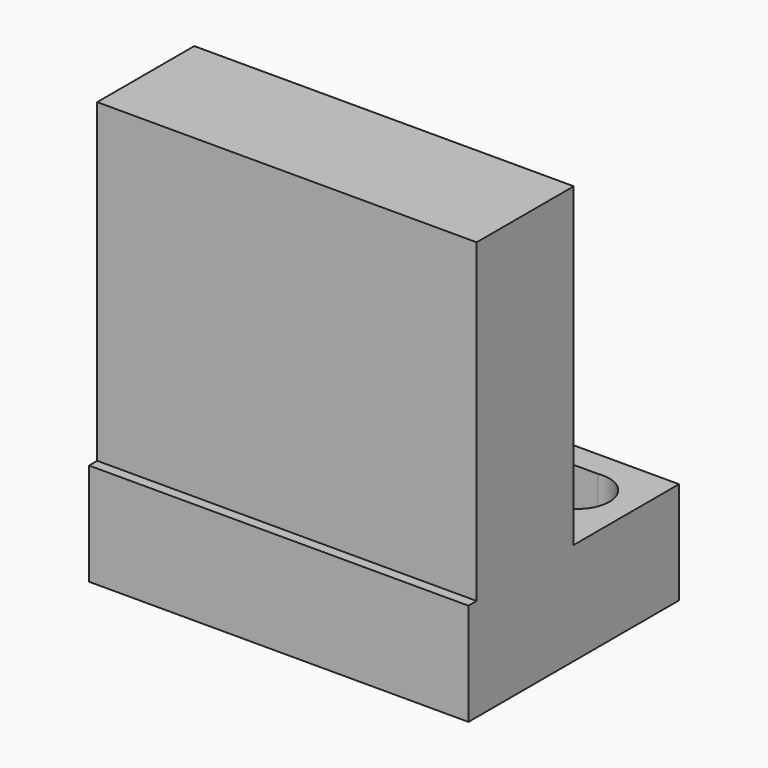
from build123d import *

# Parameters (mm, degrees)
F0_W     = 91.5788821876
F0_H     = 24.6932478622
F1_DEPTH = 63.5
F3_DEPTH = 24.6942478622
F4_W     = 91.5788821876
F4_H     = 29.2822020948
F5_DEPTH = 76.2


with BuildPart() as f1:
    # F0 (on Front) → F1 (new body)
    with BuildSketch(Plane.XZ):
        with Locations((5.1525291055, 26.8320306204)):
            Rectangle(F0_W, F0_H)
    extrude(amount=F1_DEPTH)

    # F2 (on face) → F3 (cut, through all)
    with BuildSketch(Plane.XY.offset(39.1786545515)):
        with BuildLine():
            ThreePointArc((-17.3395135884, -13.8349290937), (-19.5607685854, -8.4723451545), (-24.9233525246, -6.2510901575))
            Line((-24.9233525246, -6.2510901575), (-24.9233525246, -21.41876803))
            ThreePointArc((-24.9233525246, -21.41876803), (-19.5607685854, -19.197513033), (-17.3395135884, -13.8349290937))
        make_face()
        with BuildLine():
            Line((36.3587484939, -6.2510901575), (-24.9233525246, -6.2510901575))
            ThreePointArc((-24.9233525246, -6.2510901575), (-19.5607685854, -8.4723451545), (-17.3395135884, -13.8349290937))
            ThreePointArc((-17.3395135884, -13.8349290937), (-19.5607685854, -19.197513033), (-24.9233525246, -21.41876803))
            Line((-24.9233525246, -21.41876803), (36.3587484939, -21.41876803))
            ThreePointArc((36.3587484939, -21.41876803), (29.8547685354, -13.8349290937), (36.3587484939, -6.2510901575))
        make_face()
        with BuildLine():
            Line((-24.9233525246, -21.41876803), (-24.9233525246, -6.2510901575))
            ThreePointArc((-24.9233525246, -6.2510901575), (-32.5071914609, -13.8349290937), (-24.9233525246, -21.41876803))
        make_face()
        with BuildLine():
            ThreePointArc((45.2017359228, -13.8349290937), (42.5236593274, -8.0101321084), (36.3587484939, -6.2510901575))
            Line((36.3587484939, -6.2510901575), (37.5282522291, -6.2510901575))
            Line((37.5282522291, -6.2510901575), (37.5282522291, -21.41876803))
            Line((37.5282522291, -21.41876803), (36.3587484939, -21.41876803))
            ThreePointArc((36.3587484939, -21.41876803), (42.5236593274, -19.659726079), (45.2017359228, -13.8349290937))
        make_face()
        with BuildLine():
            Line((37.5282522291, -6.2510901575), (36.3587484939, -6.2510901575))
            ThreePointArc((36.3587484939, -6.2510901575), (29.8547685354, -13.8349290937), (36.3587484939, -21.41876803))
            Line((36.3587484939, -21.41876803), (37.5282522291, -21.41876803))
            Line((37.5282522291, -21.41876803), (37.5282522291, -6.2510901575))
        make_face()
    extrude(amount=-F3_DEPTH, mode=Mode.SUBTRACT)

    # F4 (on face) → F5 (join)
    with BuildSketch(Plane.XY.offset(39.1786545515)):
        with Locations((5.1525291055, -46.3911010474)):
            Rectangle(F4_W, F4_H)
    extrude(amount=F5_DEPTH)


solid = f1.part
